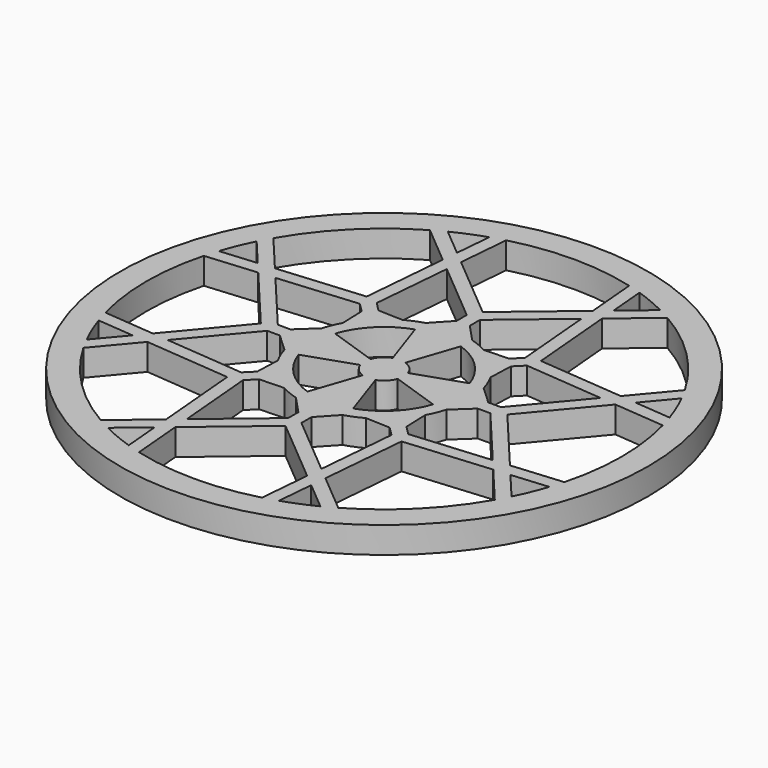
from build123d import *

# Parameters (mm, degrees)
F0_R     = 25.4
F1_DEPTH = 2.54


with BuildPart() as f1:
    # F0 (on Top) → F1 (new body)
    with BuildSketch(Plane.XY):
        Circle(F0_R)
        with BuildLine():
            Line((-16.63807, -7.666502), (-8.386692, -8.386692))
            Line((-8.386692, -8.386692), (-7.666502, -16.63807))
            Line((-7.666502, -16.63807), (-11.43, -19.797341))
            ThreePointArc((-11.43, -19.797341), (-16.164461, -16.164461), (-19.797341, -11.43))
            Line((-19.797341, -11.43), (-16.63807, -7.666502))
        make_face(mode=Mode.SUBTRACT)
        with BuildLine():
            ThreePointArc((-7.225741, -21.687975), (-8.748143, -21.119886), (-10.226344, -20.445085))
            Line((-10.226344, -20.445085), (-7.531657, -18.183027))
            Line((-7.531657, -18.183027), (-7.225741, -21.687975))
        make_face(mode=Mode.SUBTRACT)
        with BuildLine():
            Line((-6.343856, -17.185928), (0, -11.860573))
            Line((0, -11.860573), (6.343856, -17.185928))
            Line((6.343856, -17.185928), (5.916603, -22.081064))
            ThreePointArc((5.916603, -22.081064), (0, -22.86), (-5.916603, -22.081064))
            Line((-5.916603, -22.081064), (-6.343856, -17.185928))
        make_face(mode=Mode.SUBTRACT)
        with BuildLine():
            Line((-21.687975, -7.225741), (-18.183027, -7.531657))
            Line((-18.183027, -7.531657), (-20.445085, -10.226344))
            ThreePointArc((-20.445085, -10.226344), (-21.119886, -8.748143), (-21.687975, -7.225741))
        make_face(mode=Mode.SUBTRACT)
        with BuildLine():
            Line((-7.142111, -8.040137), (-6.282752, -7.180777))
            Line((-6.282752, -7.180777), (-3.923092, -7.096107))
            ThreePointArc((-3.923092, -7.096107), (-3.102932, -7.491142), (-2.243661, -7.791751))
            Line((-2.243661, -7.791751), (-0.635, -9.520153))
            Line((-0.635, -9.520153), (-0.635, -10.73547))
            Line((-0.635, -10.73547), (-6.478702, -15.64097))
            Line((-6.478702, -15.64097), (-7.142111, -8.040137))
        make_face(mode=Mode.SUBTRACT)
        with BuildLine():
            Line((-10.73547, -0.635), (-9.520153, -0.635))
            Line((-9.520153, -0.635), (-7.791751, -2.243661))
            ThreePointArc((-7.791751, -2.243661), (-7.491142, -3.102932), (-7.096107, -3.923092))
            Line((-7.096107, -3.923092), (-7.180777, -6.282752))
            Line((-7.180777, -6.282752), (-8.040137, -7.142111))
            Line((-8.040137, -7.142111), (-15.64097, -6.478702))
            Line((-15.64097, -6.478702), (-10.73547, -0.635))
        make_face(mode=Mode.SUBTRACT)
        with BuildLine():
            Line((-6.474615, -2.200555), (-1.803671, -0.613021))
            ThreePointArc((-1.803671, -0.613021), (-1.347038, -1.347038), (-0.613021, -1.803671))
            Line((-0.613021, -1.803671), (-2.200555, -6.474615))
            ThreePointArc((-2.200555, -6.474615), (-4.835446, -4.835446), (-6.474615, -2.200555))
        make_face(mode=Mode.SUBTRACT)
        with BuildLine():
            ThreePointArc((10.226344, -20.445085), (8.748143, -21.119886), (7.225741, -21.687975))
            Line((7.225741, -21.687975), (7.531657, -18.183027))
            Line((7.531657, -18.183027), (10.226344, -20.445085))
        make_face(mode=Mode.SUBTRACT)
        with BuildLine():
            Line((7.666502, -16.63807), (8.386692, -8.386692))
            Line((8.386692, -8.386692), (16.63807, -7.666502))
            Line((16.63807, -7.666502), (19.797341, -11.43))
            ThreePointArc((19.797341, -11.43), (16.164461, -16.164461), (11.43, -19.797341))
            Line((11.43, -19.797341), (7.666502, -16.63807))
        make_face(mode=Mode.SUBTRACT)
        with BuildLine():
            Line((0.635, -10.73547), (0.635, -9.520153))
            Line((0.635, -9.520153), (2.243661, -7.791751))
            ThreePointArc((2.243661, -7.791751), (3.102932, -7.491142), (3.923092, -7.096107))
            Line((3.923092, -7.096107), (6.282752, -7.180777))
            Line((6.282752, -7.180777), (7.142111, -8.040137))
            Line((7.142111, -8.040137), (6.478702, -15.64097))
            Line((6.478702, -15.64097), (0.635, -10.73547))
        make_face(mode=Mode.SUBTRACT)
        with BuildLine():
            Line((2.200555, -6.474615), (0.613021, -1.803671))
            ThreePointArc((0.613021, -1.803671), (1.347038, -1.347038), (1.803671, -0.613021))
            Line((1.803671, -0.613021), (6.474615, -2.200555))
            ThreePointArc((6.474615, -2.200555), (4.835446, -4.835446), (2.200555, -6.474615))
        make_face(mode=Mode.SUBTRACT)
        with BuildLine():
            Line((8.040137, -7.142111), (7.180777, -6.282752))
            Line((7.180777, -6.282752), (7.096107, -3.923092))
            ThreePointArc((7.096107, -3.923092), (7.491142, -3.102932), (7.791751, -2.243661))
            Line((7.791751, -2.243661), (9.520153, -0.635))
            Line((9.520153, -0.635), (10.73547, -0.635))
            Line((10.73547, -0.635), (15.64097, -6.478702))
            Line((15.64097, -6.478702), (8.040137, -7.142111))
        make_face(mode=Mode.SUBTRACT)
        with BuildLine():
            ThreePointArc((21.687975, -7.225741), (21.119886, -8.748143), (20.445085, -10.226344))
            Line((20.445085, -10.226344), (18.183027, -7.531657))
            Line((18.183027, -7.531657), (21.687975, -7.225741))
        make_face(mode=Mode.SUBTRACT)
        with BuildLine():
            Line((17.185928, -6.343856), (11.860573, 0))
            Line((11.860573, 0), (17.185928, 6.343856))
            Line((17.185928, 6.343856), (22.081064, 5.916603))
            ThreePointArc((22.081064, 5.916603), (22.86, 0), (22.081064, -5.916603))
            Line((22.081064, -5.916603), (17.185928, -6.343856))
        make_face(mode=Mode.SUBTRACT)
        with BuildLine():
            Line((-17.185928, 6.343856), (-11.860573, 0))
            Line((-11.860573, 0), (-17.185928, -6.343856))
            Line((-17.185928, -6.343856), (-22.081064, -5.916603))
            ThreePointArc((-22.081064, -5.916603), (-22.86, 0), (-22.081064, 5.916603))
            Line((-22.081064, 5.916603), (-17.185928, 6.343856))
        make_face(mode=Mode.SUBTRACT)
        with BuildLine():
            Line((-20.445085, 10.226344), (-18.183027, 7.531657))
            Line((-18.183027, 7.531657), (-21.687975, 7.225741))
            ThreePointArc((-21.687975, 7.225741), (-21.119886, 8.748143), (-20.445085, 10.226344))
        make_face(mode=Mode.SUBTRACT)
        with BuildLine():
            Line((-8.040137, 7.142111), (-7.180777, 6.282752))
            Line((-7.180777, 6.282752), (-7.096107, 3.923092))
            ThreePointArc((-7.096107, 3.923092), (-7.491142, 3.102932), (-7.791751, 2.243661))
            Line((-7.791751, 2.243661), (-9.520153, 0.635))
            Line((-9.520153, 0.635), (-10.73547, 0.635))
            Line((-10.73547, 0.635), (-15.64097, 6.478702))
            Line((-15.64097, 6.478702), (-8.040137, 7.142111))
        make_face(mode=Mode.SUBTRACT)
        with BuildLine():
            Line((-2.200555, 6.474615), (-0.613021, 1.803671))
            ThreePointArc((-0.613021, 1.803671), (-1.347038, 1.347038), (-1.803671, 0.613021))
            Line((-1.803671, 0.613021), (-6.474615, 2.200555))
            ThreePointArc((-6.474615, 2.200555), (-4.835446, 4.835446), (-2.200555, 6.474615))
        make_face(mode=Mode.SUBTRACT)
        with BuildLine():
            Line((-0.635, 10.73547), (-0.635, 9.520153))
            Line((-0.635, 9.520153), (-2.243661, 7.791751))
            ThreePointArc((-2.243661, 7.791751), (-3.102932, 7.491142), (-3.923092, 7.096107))
            Line((-3.923092, 7.096107), (-6.282752, 7.180777))
            Line((-6.282752, 7.180777), (-7.142111, 8.040137))
            Line((-7.142111, 8.040137), (-6.478702, 15.64097))
            Line((-6.478702, 15.64097), (-0.635, 10.73547))
        make_face(mode=Mode.SUBTRACT)
        with BuildLine():
            ThreePointArc((-19.797341, 11.43), (-16.164461, 16.164461), (-11.43, 19.797341))
            Line((-11.43, 19.797341), (-7.666502, 16.63807))
            Line((-7.666502, 16.63807), (-8.386692, 8.386692))
            Line((-8.386692, 8.386692), (-16.63807, 7.666502))
            Line((-16.63807, 7.666502), (-19.797341, 11.43))
        make_face(mode=Mode.SUBTRACT)
        with BuildLine():
            Line((-7.225741, 21.687975), (-7.531657, 18.183027))
            Line((-7.531657, 18.183027), (-10.226344, 20.445085))
            ThreePointArc((-10.226344, 20.445085), (-8.748143, 21.119886), (-7.225741, 21.687975))
        make_face(mode=Mode.SUBTRACT)
        with BuildLine():
            ThreePointArc((1.803671, 0.613021), (1.347038, 1.347038), (0.613021, 1.803671))
            Line((0.613021, 1.803671), (2.200555, 6.474615))
            ThreePointArc((2.200555, 6.474615), (4.835446, 4.835446), (6.474615, 2.200555))
            Line((6.474615, 2.200555), (1.803671, 0.613021))
        make_face(mode=Mode.SUBTRACT)
        with BuildLine():
            Line((10.73547, 0.635), (9.520153, 0.635))
            Line((9.520153, 0.635), (7.791751, 2.243661))
            ThreePointArc((7.791751, 2.243661), (7.491142, 3.102932), (7.096107, 3.923092))
            Line((7.096107, 3.923092), (7.180777, 6.282752))
            Line((7.180777, 6.282752), (8.040137, 7.142111))
            Line((8.040137, 7.142111), (15.64097, 6.478702))
            Line((15.64097, 6.478702), (10.73547, 0.635))
        make_face(mode=Mode.SUBTRACT)
        with BuildLine():
            Line((2.243661, 7.791751), (0.635, 9.520153))
            Line((0.635, 9.520153), (0.635, 10.73547))
            Line((0.635, 10.73547), (6.478702, 15.64097))
            Line((6.478702, 15.64097), (7.142111, 8.040137))
            Line((7.142111, 8.040137), (6.282752, 7.180777))
            Line((6.282752, 7.180777), (3.923092, 7.096107))
            ThreePointArc((3.923092, 7.096107), (3.102932, 7.491142), (2.243661, 7.791751))
        make_face(mode=Mode.SUBTRACT)
        with BuildLine():
            ThreePointArc((20.445085, 10.226344), (21.119886, 8.748143), (21.687975, 7.225741))
            Line((21.687975, 7.225741), (18.183027, 7.531657))
            Line((18.183027, 7.531657), (20.445085, 10.226344))
        make_face(mode=Mode.SUBTRACT)
        with BuildLine():
            Line((6.343856, 17.185928), (0, 11.860573))
            Line((0, 11.860573), (-6.343856, 17.185928))
            Line((-6.343856, 17.185928), (-5.916603, 22.081064))
            ThreePointArc((-5.916603, 22.081064), (0, 22.86), (5.916603, 22.081064))
            Line((5.916603, 22.081064), (6.343856, 17.185928))
        make_face(mode=Mode.SUBTRACT)
        with BuildLine():
            ThreePointArc((7.225741, 21.687975), (8.748143, 21.119886), (10.226344, 20.445085))
            Line((10.226344, 20.445085), (7.531657, 18.183027))
            Line((7.531657, 18.183027), (7.225741, 21.687975))
        make_face(mode=Mode.SUBTRACT)
        with BuildLine():
            Line((16.63807, 7.666502), (8.386692, 8.386692))
            Line((8.386692, 8.386692), (7.666502, 16.63807))
            Line((7.666502, 16.63807), (11.43, 19.797341))
            ThreePointArc((11.43, 19.797341), (16.164461, 16.164461), (19.797341, 11.43))
            Line((19.797341, 11.43), (16.63807, 7.666502))
        make_face(mode=Mode.SUBTRACT)
    extrude(amount=F1_DEPTH)


solid = f1.part
